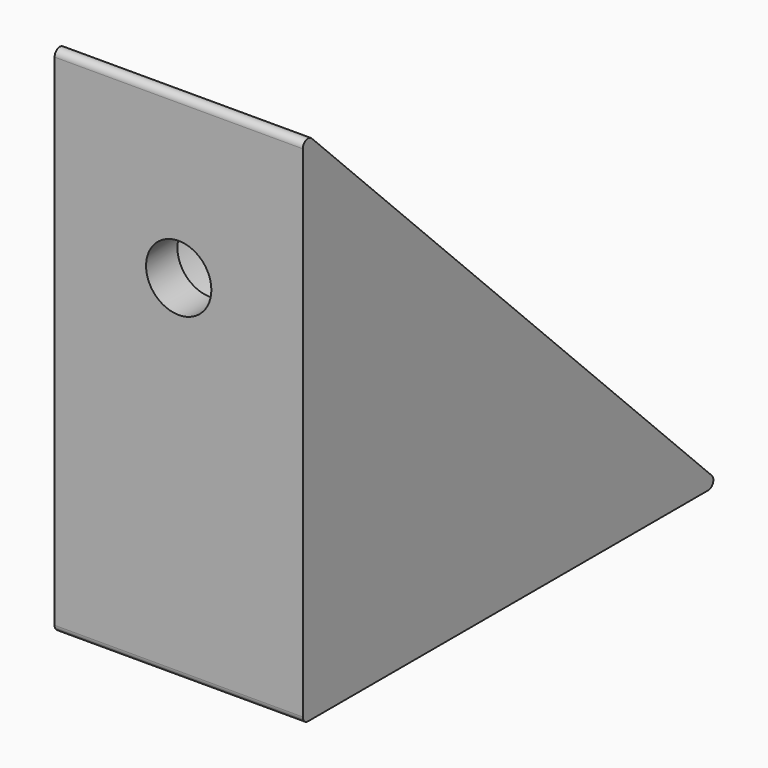
from build123d import *

# Parameters (mm, degrees)
F0_W      = 19
F0_H      = 40
F1_DEPTH  = 40
F3_DEPTH  = 25
F4_R      = 2.5
F5_DEPTH  = 25
F7_START  = -3
F6_R      = 6
F7_DEPTH  = 22
F8_R      = 2.5
F9_DEPTH  = 25
F11_START = -3
F10_R     = 6
F11_DEPTH = 22
F12_R     = 0.5


with BuildPart() as f1:
    # F0 (on Front) → F1 (new body)
    with BuildSketch(Plane.XZ):
        Rectangle(F0_W, F0_H)
    extrude(amount=F1_DEPTH)

    # F2 (on face) → F3 (cut)
    with BuildSketch(Plane.YZ.offset(9.5)):
        Polygon((0, 20), (-40, 20), (0, -20), align=None)
    extrude(amount=-F3_DEPTH, mode=Mode.SUBTRACT)

    # F4 (on face) → F5 (cut)
    with BuildSketch(Plane.XZ.offset(40)):
        with Locations((0, 7)):
            Circle(F4_R)
    extrude(amount=-F5_DEPTH, mode=Mode.SUBTRACT)

    # F6 (on face) → F7 (cut)
    with BuildSketch(Plane.XZ.offset(40).offset(F7_START)):
        with Locations((0, 7)):
            Circle(F6_R)
    extrude(amount=-F7_DEPTH, mode=Mode.SUBTRACT)

    # F8 (on face) → F9 (cut)
    with BuildSketch(Plane(origin=(0, 0, -20), x_dir=(1, 0, 0), z_dir=(0, 0, -1))):
        with Locations((0, 13)):
            Circle(F8_R)
    extrude(amount=-F9_DEPTH, mode=Mode.SUBTRACT)

    # F10 (on face) → F11 (cut)
    with BuildSketch(Plane(origin=(0, 0, -20), x_dir=(1, 0, 0), z_dir=(0, 0, -1)).offset(F11_START)):
        with Locations((0, 13)):
            Circle(F10_R)
    extrude(amount=-F11_DEPTH, mode=Mode.SUBTRACT)

    # F12
    f12_edges = [f1.edges().sort_by_distance(p)[0] for p in [
        (0, -40, 20),
        (0, 0, -20),
        (0, -40, -20),
    ]]
    fillet(f12_edges, radius=F12_R)


solid = f1.part
